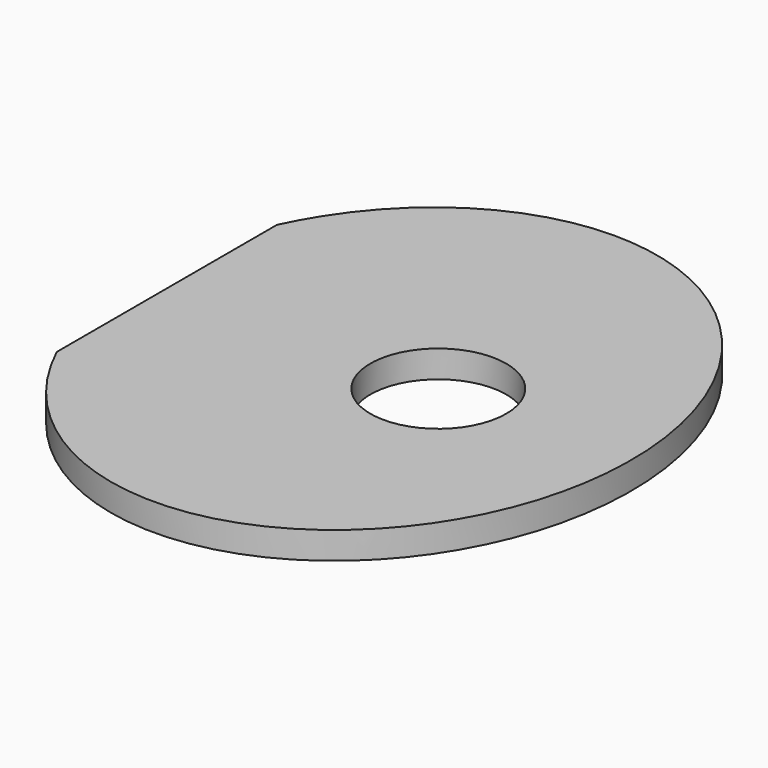
from build123d import *

# Parameters (mm, degrees)
F0_R     = 2.5
F1_DEPTH = 1


with BuildPart() as f1:
    # F0 (on Top) → F1 (new body)
    with BuildSketch(Plane.XY):
        with BuildLine():
            Line((-4.8268395689, 0.2898527145), (-4.8268395689, -4.7512399855))
            add(Edge.make_bspline(
                [(-4.8268395689, -4.7512399855), (0.4435265013, -16.0452022697), (8.9577509566, -7.8670552722), (17.4719754119, 0.3110917253), (8.9577509566, 8.4892387228), (0.4435265013, 16.6673857203), (-4.8268395689, 5.3734234361)],
                knots=[2.0686928028, 2.0686928028, 2.0686928028, 3.8311569212, 3.8311569212, 5.5936210396, 5.5936210396, 7.356085158, 7.356085158, 7.356085158], degree=2, weights=[1, 0.6362010649, 1, 0.6362010649, 1, 0.6362010649, 1]))
            Line((-4.8268395689, 5.3734234361), (-4.8268395689, 0.3323307361))
            Line((-4.8268395689, 0.3323307361), (-4.8268395689, 0.2898527145))
        make_face()
        with Locations((5.161339934, 0.3110917253)):
            Circle(F0_R, mode=Mode.SUBTRACT)
    extrude(amount=F1_DEPTH)


solid = f1.part
